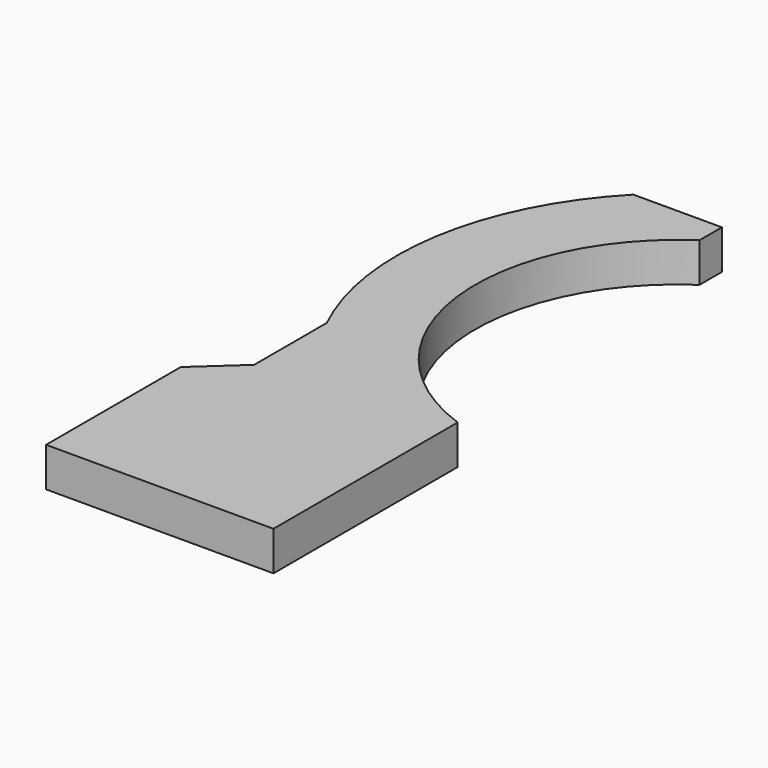
from build123d import *

# Parameters (mm, degrees)
CYLINDER002_R     = 0.5
CYLINDER002_DEPTH = 15
PAD001_DEPTH      = 7


with BuildPart() as fixation_servo:
    # Cylinder002 → Cylinder002 (new body)
    with BuildSketch(Plane(origin=(38, 30, 0), x_dir=(1, 0, 0), z_dir=(0, 0, 1))):
        Circle(CYLINDER002_R)
    extrude(amount=CYLINDER002_DEPTH)


with BuildPart() as part_mirroring001:
    # Part__Mirroring001: instance of fixation_servo
    add(fixation_servo.part.mirror(Plane(origin=(0, 0, 0), x_dir=(0, -1, 0), z_dir=(1, 0, 0))))


with BuildPart() as cut004:
    # Sketch001 → Pad001 (new body)
    with BuildSketch(Plane.XY):
        with BuildLine():
            Line((20.522763, 10), (-20, 10))
            Line((-20, 10), (-20, 40))
            Line((-20, 40), (-12.44178, 46.907085))
            Line((-12.44178, 63.085703), (-12.44178, 46.907085))
            ThreePointArc((-3.272439, 119.933259), (-16.862004, 92.961944), (-12.44178, 63.085703))
            Line((12.5, 119.933259), (-3.272439, 119.933259))
            Line((12.5, 119.933259), (12.5, 114.933259))
            ThreePointArc((12.5, 114.933259), (-3.21942, 80.514127), (20.522763, 51.050835))
            Line((20.522763, 51.050835), (20.522763, 10))
        make_face()
    extrude(amount=PAD001_DEPTH)

    # Cut004: cut Part__Mirroring001
    add(part_mirroring001.part, mode=Mode.SUBTRACT)


solid = cut004.part
